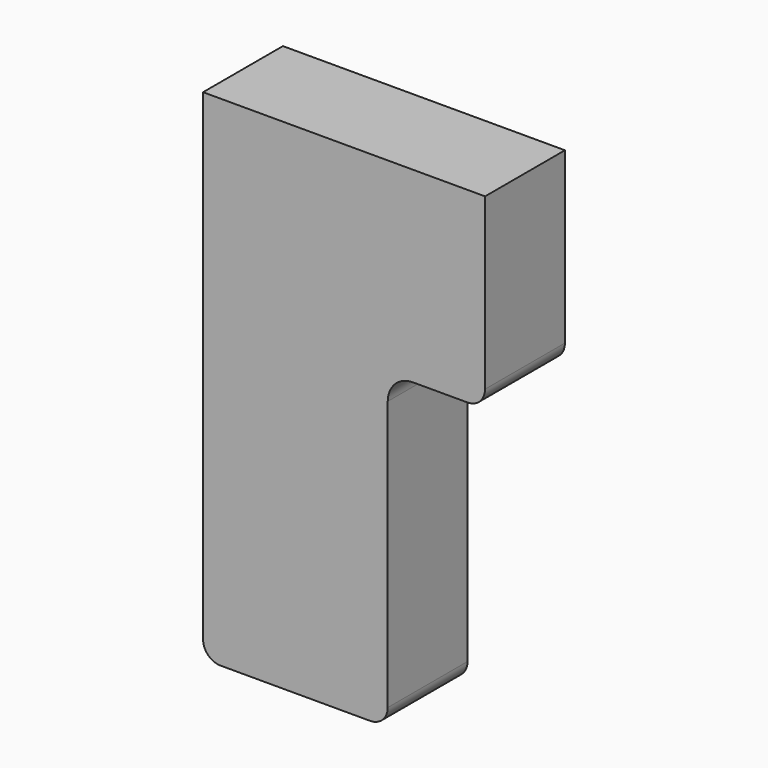
from build123d import *

# Parameters (mm, degrees)
F1_DEPTH = 23
F2_W     = 113
F2_H     = 46
F3_DEPTH = 40
F4_R     = 7
F5_R     = 10
F6_W     = 113
F6_H     = 6
F7_DEPTH = 200.001


with BuildPart() as f1:
    # F0 (on Front) → F1 (new body, symmetric)
    with BuildSketch(Plane.XZ):
        Polygon((0, 160), (0, 0), (74, 0), (74, 125), (113, 125), (113, 160), align=None)
    extrude(amount=F1_DEPTH, both=True)

    # F2 (on face) → F3 (join)
    with BuildSketch(Plane.XY.offset(160)):
        with Locations((56.5, 0)):
            Rectangle(F2_W, F2_H)
    extrude(amount=F3_DEPTH)

    # F4
    f4_edges = [f1.edges().sort_by_distance(p)[0] for p in [
        (74, 0, 0),
        (0, 0, 0),
        (113, 0, 125),
    ]]
    fillet(f4_edges, radius=F4_R)

    # F5
    f5_edges = [f1.edges().sort_by_distance(p)[0] for p in [
        (74, 0, 125),
    ]]
    fillet(f5_edges, radius=F5_R)

    # F6 (on face) → F7 (cut, through all)
    with BuildSketch(Plane.XY.offset(200)):
        with Locations((56.5, 20)):
            Rectangle(F6_W, F6_H)
    extrude(amount=-F7_DEPTH, mode=Mode.SUBTRACT)


solid = f1.part
